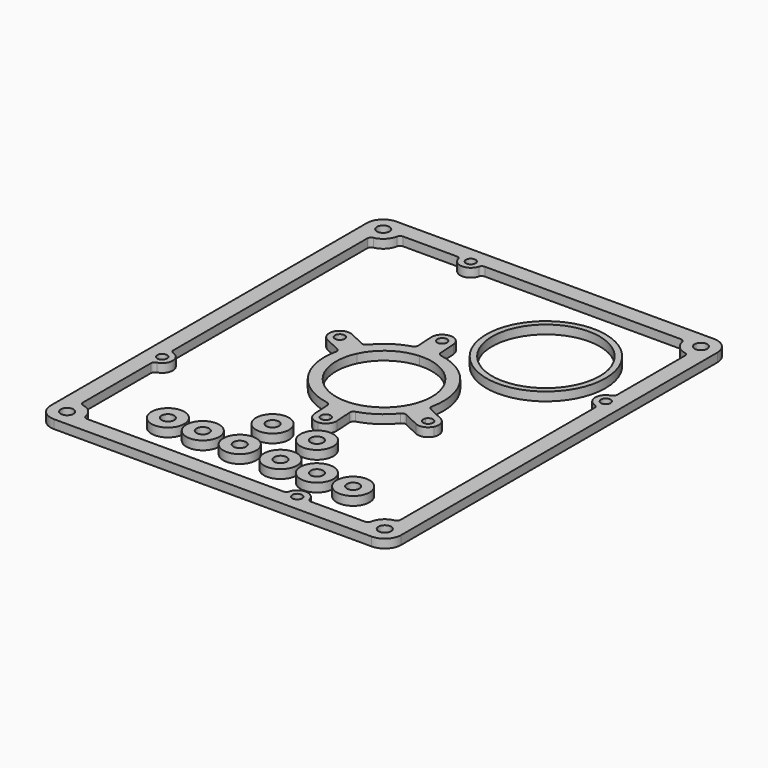
from build123d import *

# Parameters (mm, degrees)
F0_R     = 3.25
F0_R_2   = 2.5
F2_DEPTH = 4.5
F1_R     = 30.75
F1_R_2   = 27.75
F1_R_3   = 8.5
F1_R_4   = 3.25
F3_DEPTH = 4.5


with BuildPart() as f2:
    # F0 (on Top) → F2 (new body)
    with BuildSketch(Plane.XY):
        with BuildLine():
            Line((82, 110.5), (-82, 110.5))
            ThreePointArc((-82, 110.5), (-88.010408, 108.010408), (-90.5, 102))
            Line((-90.5, 102), (-90.5, -102))
            ThreePointArc((-90.5, -102), (-88.010408, -108.010408), (-82, -110.5))
            Line((-82, -110.5), (82, -110.5))
            ThreePointArc((82, -110.5), (88.010408, -108.010408), (90.5, -102))
            Line((90.5, -102), (90.5, 102))
            ThreePointArc((90.5, 102), (88.010408, 108.010408), (82, 110.5))
        make_face()
        with Locations((-82, -102)):
            Circle(F0_R, mode=Mode.SUBTRACT)
        with Locations((-82, -40.673)):
            Circle(F0_R_2, mode=Mode.SUBTRACT)
        with Locations((36.801, -102)):
            Circle(F0_R_2, mode=Mode.SUBTRACT)
        with Locations((82, -102)):
            Circle(F0_R, mode=Mode.SUBTRACT)
        with Locations((-82, 102)):
            Circle(F0_R, mode=Mode.SUBTRACT)
        with Locations((-36.801, 102)):
            Circle(F0_R_2, mode=Mode.SUBTRACT)
        with BuildLine():
            ThreePointArc((-80.380952, 93.65562), (-75.989592, 95.989592), (-73.65562, 100.380952))
            ThreePointArc((-73.65562, 100.380952), (-72.964654, 101.543033), (-71.692236, 102))
            Line((-71.692236, 102), (-44.029416, 102))
            ThreePointArc((-44.029416, 102), (-42.818356, 101.591645), (-42.101839, 100.533333))
            ThreePointArc((-42.101839, 100.533333), (-36.801, 96.5), (-31.500161, 100.533333))
            ThreePointArc((-31.500161, 100.533333), (-30.783644, 101.591645), (-29.572584, 102))
            Line((-29.572584, 102), (71.692236, 102))
            ThreePointArc((71.692236, 102), (72.964654, 101.543033), (73.65562, 100.380952))
            ThreePointArc((73.65562, 100.380952), (75.989592, 95.989592), (80.380952, 93.65562))
            ThreePointArc((80.380952, 93.65562), (81.543033, 92.964654), (82, 91.692236))
            Line((82, 91.692236), (82, 47.901416))
            ThreePointArc((82, 47.901416), (81.591645, 46.690356), (80.533333, 45.973839))
            ThreePointArc((80.533333, 45.973839), (76.5, 40.673), (80.533333, 35.372161))
            ThreePointArc((80.533333, 35.372161), (81.591645, 34.655644), (82, 33.444584))
            Line((82, 33.444584), (82, -91.692236))
            ThreePointArc((82, -91.692236), (81.543033, -92.964654), (80.380952, -93.65562))
            ThreePointArc((80.380952, -93.65562), (75.989592, -95.989592), (73.65562, -100.380952))
            ThreePointArc((73.65562, -100.380952), (72.964654, -101.543033), (71.692236, -102))
            Line((71.692236, -102), (44.029416, -102))
            ThreePointArc((44.029416, -102), (42.818356, -101.591645), (42.101839, -100.533333))
            ThreePointArc((42.101839, -100.533333), (36.801, -96.5), (31.500161, -100.533333))
            ThreePointArc((31.500161, -100.533333), (30.783644, -101.591645), (29.572584, -102))
            Line((29.572584, -102), (-71.692236, -102))
            ThreePointArc((-71.692236, -102), (-72.964654, -101.543033), (-73.65562, -100.380952))
            ThreePointArc((-73.65562, -100.380952), (-75.989592, -95.989592), (-80.380952, -93.65562))
            ThreePointArc((-80.380952, -93.65562), (-81.543033, -92.964654), (-82, -91.692236))
            Line((-82, -91.692236), (-82, -47.901416))
            ThreePointArc((-82, -47.901416), (-81.591645, -46.690356), (-80.533333, -45.973839))
            ThreePointArc((-80.533333, -45.973839), (-76.5, -40.673), (-80.533333, -35.372161))
            ThreePointArc((-80.533333, -35.372161), (-81.591645, -34.655644), (-82, -33.444584))
            Line((-82, -33.444584), (-82, 91.692236))
            ThreePointArc((-82, 91.692236), (-81.543033, 92.964654), (-80.380952, 93.65562))
        make_face(mode=Mode.SUBTRACT)
        with Locations((82, 40.673)):
            Circle(F0_R_2, mode=Mode.SUBTRACT)
        with Locations((82, 102)):
            Circle(F0_R, mode=Mode.SUBTRACT)
    extrude(amount=F2_DEPTH)


with BuildPart() as f3:
    # F1 (on Top) → F3 (new body)
    with BuildSketch(Plane.XY):
        with BuildLine():
            ThreePointArc((0, 40.673241), (-4.321186, 42.385923), (-2.346626, 38.17795))
            ThreePointArc((-2.346626, 38.17795), (-0.678814, 38.960558), (0, 40.673241))
        make_face()
        with BuildLine():
            ThreePointArc((39.300985, -17.5), (37.351293, -15.06132), (34.543256, -16.42638))
            ThreePointArc((34.543256, -16.42638), (36.250677, -19.93868), (39.300985, -17.5))
        make_face()
        with BuildLine():
            ThreePointArc((5, -40.673241), (4.212683, -38.852055), (2.346626, -38.17795))
            ThreePointArc((2.346626, -38.17795), (0.787317, -42.494426), (5, -40.673241))
        make_face()
        with BuildLine():
            ThreePointArc((-34.300985, 17.5), (-39.239665, 18.050308), (-34.543256, 16.42638))
            ThreePointArc((-34.543256, 16.42638), (-34.362305, 16.949692), (-34.300985, 17.5))
        make_face()
        with BuildLine():
            ThreePointArc((-24.007903, 19.214137), (-25.121255, 18.514691), (-26.428289, 18.657654))
            Line((-26.428289, 18.657654), (-34.439022, 22.467004))
            ThreePointArc((-34.439022, 22.467004), (-38.643027, 22.682362), (-41.767989, 19.861963))
            ThreePointArc((-41.767989, 19.861963), (-41.983348, 15.657958), (-39.162948, 12.532996))
            Line((-39.162948, 12.532996), (-31.152215, 8.723646))
            ThreePointArc((-31.152215, 8.723646), (-30.216391, 7.800061), (-30.056234, 6.495022))
            ThreePointArc((-30.056234, 6.495022), (-25.480179, -17.214034), (-5.192351, -30.308447))
            ThreePointArc((-5.192351, -30.308447), (-4.041395, -30.944116), (-3.533833, -32.157029))
            Line((-3.533833, -32.157029), (-2.98964, -41.010664))
            ThreePointArc((-2.98964, -41.010664), (-1.143167, -44.793596), (2.837423, -46.16288))
            ThreePointArc((2.837423, -46.16288), (6.620356, -44.316408), (7.98964, -40.335817))
            Line((7.98964, -40.335817), (7.445447, -31.482183))
            ThreePointArc((7.445447, -31.482183), (7.800645, -30.21624), (8.865089, -29.4444))
            ThreePointArc((8.865089, -29.4444), (17.214034, -25.480179), (24.007903, -19.214137))
            ThreePointArc((24.007903, -19.214137), (25.121255, -18.514691), (26.428289, -18.657654))
            Line((26.428289, -18.657654), (34.439022, -22.467004))
            ThreePointArc((34.439022, -22.467004), (38.643027, -22.682362), (41.767989, -19.861963))
            ThreePointArc((41.767989, -19.861963), (41.983348, -15.657958), (39.162948, -12.532996))
            Line((39.162948, -12.532996), (31.152215, -8.723646))
            ThreePointArc((31.152215, -8.723646), (30.216391, -7.800061), (30.056234, -6.495022))
            ThreePointArc((30.056234, -6.495022), (25.480179, 17.214034), (5.192351, 30.308447))
            ThreePointArc((5.192351, 30.308447), (4.041395, 30.944116), (3.533833, 32.157029))
            Line((3.533833, 32.157029), (2.98964, 41.010664))
            ThreePointArc((2.98964, 41.010664), (1.143167, 44.793596), (-2.837423, 46.16288))
            ThreePointArc((-2.837423, 46.16288), (-6.620356, 44.316408), (-7.98964, 40.335817))
            Line((-7.98964, 40.335817), (-7.445447, 31.482183))
            ThreePointArc((-7.445447, 31.482183), (-7.800645, 30.21624), (-8.865089, 29.4444))
            ThreePointArc((-8.865089, 29.4444), (-17.214034, 25.480179), (-24.007903, 19.214137))
        make_face()
        with BuildLine():
            ThreePointArc((5, -40.673241), (0.787317, -42.494426), (2.346626, -38.17795))
            ThreePointArc((2.346626, -38.17795), (4.212683, -38.852055), (5, -40.673241))
        make_face(mode=Mode.SUBTRACT)
        with BuildLine():
            ThreePointArc((39.300985, -17.5), (36.250677, -19.93868), (34.543256, -16.42638))
            ThreePointArc((34.543256, -16.42638), (37.351293, -15.06132), (39.300985, -17.5))
        make_face(mode=Mode.SUBTRACT)
        with BuildLine():
            ThreePointArc((-34.300985, 17.5), (-34.362305, 16.949692), (-34.543256, 16.42638))
            ThreePointArc((-34.543256, 16.42638), (-39.239665, 18.050308), (-34.300985, 17.5))
        make_face(mode=Mode.SUBTRACT)
        with BuildLine():
            ThreePointArc((1.518405, -24.703379), (-20.508437, -13.855198), (-22.351519, 10.628834))
            ThreePointArc((-22.351519, 10.628834), (-13.855198, 20.508437), (-1.518405, 24.703379))
            ThreePointArc((-1.518405, 24.703379), (16.955559, 18.02974), (24.75, 0))
            ThreePointArc((24.75, 0), (24.142935, -5.448046), (22.351519, -10.628834))
            ThreePointArc((22.351519, -10.628834), (13.855198, -20.508437), (1.518405, -24.703379))
        make_face(mode=Mode.SUBTRACT)
        with BuildLine():
            ThreePointArc((0, 40.673241), (-0.678814, 38.960558), (-2.346626, 38.17795))
            ThreePointArc((-2.346626, 38.17795), (-4.321186, 42.385923), (0, 40.673241))
        make_face(mode=Mode.SUBTRACT)
        with Locations((38.576309, 56.284752)):
            Circle(F1_R)
        with Locations((38.576309, 56.284752)):
            Circle(F1_R_2, mode=Mode.SUBTRACT)
        with Locations((-10.685606, -58.573555)):
            Circle(F1_R_3)
        with Locations((-10.685606, -58.573555)):
            Circle(F1_R_4, mode=Mode.SUBTRACT)
        with Locations((-9.78367, -80.87038)):
            Circle(F1_R_3)
        with Locations((-9.78367, -80.87038)):
            Circle(F1_R_4, mode=Mode.SUBTRACT)
        with Locations((-28.865289, -80.866318)):
            Circle(F1_R_3)
        with Locations((-28.865289, -80.866318)):
            Circle(F1_R_4, mode=Mode.SUBTRACT)
        with Locations((-46.877083, -80.862483)):
            Circle(F1_R_3)
        with Locations((-46.877083, -80.862483)):
            Circle(F1_R_4, mode=Mode.SUBTRACT)
        with Locations((12.244419, -58.573555)):
            Circle(F1_R_3)
        with Locations((12.244419, -58.573555)):
            Circle(F1_R_4, mode=Mode.SUBTRACT)
        with Locations((11.255037, -80.874859)):
            Circle(F1_R_3)
        with Locations((11.255037, -80.874859)):
            Circle(F1_R_4, mode=Mode.SUBTRACT)
        with Locations((30.092149, -80.87887)):
            Circle(F1_R_3)
        with Locations((30.092149, -80.87887)):
            Circle(F1_R_4, mode=Mode.SUBTRACT)
        with Locations((48.777179, -80.882848)):
            Circle(F1_R_3)
        with Locations((48.777179, -80.882848)):
            Circle(F1_R_4, mode=Mode.SUBTRACT)
    extrude(amount=F3_DEPTH)


solid = Compound([f2.part, f3.part])
